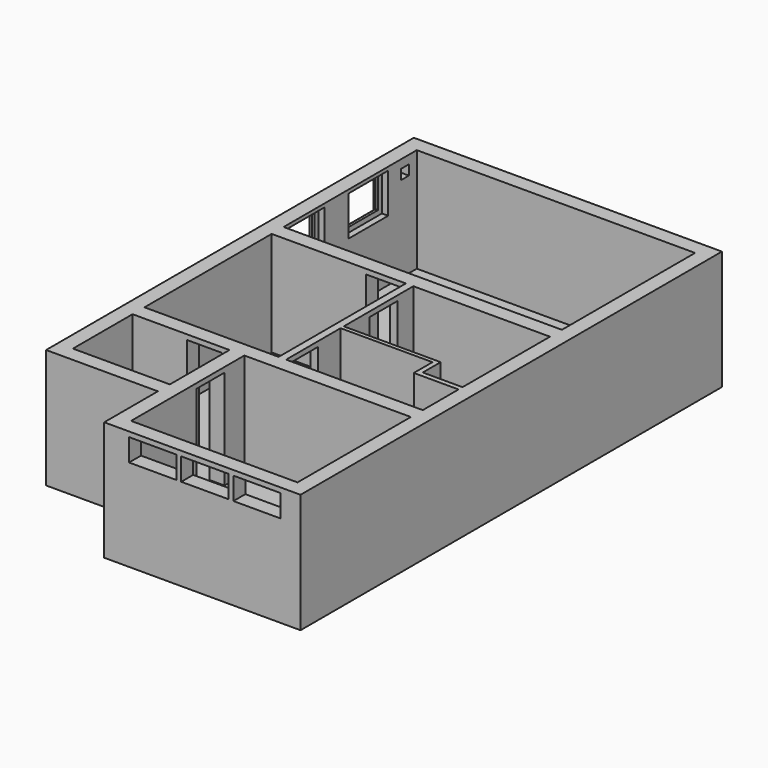
from build123d import *

# Parameters (mm, degrees)
F0_W      = 1950
F0_H      = 1500
F0_W_2    = 2700
F0_H_2    = 3200
F0_W_3    = 5600
F0_H_3    = 3350
F1_DEPTH  = 2100
F3_DEPTH  = 300
F4_W      = 950
F4_H      = 450
F5_DEPTH  = 300
F6_W      = 700
F6_H      = 2000
F7_DEPTH  = 300
F8_W      = 700
F8_H      = 2000
F9_DEPTH  = 300
F10_W     = 800
F10_H     = 2000
F11_DEPTH = 300
F12_W     = 700
F12_H     = 2000
F13_DEPTH = 150
F14_W     = 800
F14_H     = 200
F14_W_2   = 200
F15_DEPTH = 300.001
F16_W     = 800
F16_H     = 600
F16_W_2   = 200
F16_H_2   = 200
F17_DEPTH = 300.001
F18_W     = 1000
F18_H     = 800
F19_DEPTH = 125
F20_W     = 1000
F20_H     = 800
F21_DEPTH = 125
F22_W     = 1450
F22_H     = 200
F23_DEPTH = 1100
F25_DEPTH = 5


with BuildPart() as f1:
    # F0 (on Top) → F1 (new body)
    with BuildSketch(Plane.XY):
        Polygon((5900, -10300), (5900, 300), (-300, 300), (-300, -8950), (1950, -8950), (1950, -10300), align=None)
        with Locations((975, -7900)):
            Rectangle(F0_W, F0_H, mode=Mode.SUBTRACT)
        with Locations((1350, -5250)):
            Rectangle(F0_W_2, F0_H_2, mode=Mode.SUBTRACT)
        Polygon((5600, -7150), (5600, -8650), (5600, -10000), (2250, -10000), (2250, -8650), (2250, -7150), align=None, mode=Mode.SUBTRACT)
        Polygon((5600, -6850), (2850, -6850), (2850, -5480), (4700, -5480), (4700, -5950), (5600, -5950), align=None, mode=Mode.SUBTRACT)
        Polygon((2850, -5400), (2850, -3650), (5600, -3650), (5600, -5850), (4800, -5850), (4800, -5400), align=None, mode=Mode.SUBTRACT)
        with Locations((2800, -1675)):
            Rectangle(F0_W_3, F0_H_3, mode=Mode.SUBTRACT)
    extrude(amount=F1_DEPTH)

    # F2 (on face) → F3 (join)
    with BuildSketch(Plane.XY):
        Polygon((-300, 300), (-300, -8950), (1950, -8950), (1950, -10300), (5900, -10300), (5900, 300), align=None)
    extrude(amount=-F3_DEPTH)

    # F4 (on face) → F5 (cut, through all)
    with BuildSketch(Plane(origin=(0, -10000, 0), x_dir=(-1, 0, 0), z_dir=(0, 1, 0))):
        with Locations((-5025, 1775)):
            Rectangle(F4_W, F4_H)
        with Locations((-3975, 1775)):
            Rectangle(F4_W, F4_H)
        with Locations((-2925, 1775)):
            Rectangle(F4_W, F4_H)
    extrude(amount=-F5_DEPTH, mode=Mode.SUBTRACT)

    # F6 (on face) → F7 (cut, through all)
    with BuildSketch(Plane.XZ.offset(7150)):
        with Locations((1450, 1000)):
            Rectangle(F6_W, F6_H)
    extrude(amount=-F7_DEPTH, mode=Mode.SUBTRACT)

    # F8 (on face) → F9 (cut, through all)
    with BuildSketch(Plane(origin=(1950, 0, 0), x_dir=(0, -1, 0), z_dir=(-1, 0, 0))):
        with Locations((8000, 1000)):
            Rectangle(F8_W, F8_H)
    extrude(amount=-F9_DEPTH, mode=Mode.SUBTRACT)

    # F10 (on face) → F11 (cut, through all)
    with BuildSketch(Plane.XZ.offset(3650)):
        with Locations((2300, 1000)):
            Rectangle(F10_W, F10_H)
    extrude(amount=-F11_DEPTH, mode=Mode.SUBTRACT)

    # F12 (on face) → F13 (cut, through all)
    with BuildSketch(Plane(origin=(2700, 0, 0), x_dir=(0, -1, 0), z_dir=(-1, 0, 0))):
        with Locations((6400, 1000)):
            Rectangle(F12_W, F12_H)
        with Locations((4400, 1000)):
            Rectangle(F12_W, F12_H)
    extrude(amount=-F13_DEPTH, mode=Mode.SUBTRACT)

    # F14 (on face) → F15 (cut, through all)
    with BuildSketch(Plane.YZ):
        with Locations((-2820, 1830)):
            Rectangle(F14_W, F14_H)
        with Locations((-300, 1830)):
            Rectangle(F14_W_2, F14_H)
    extrude(amount=-F15_DEPTH, mode=Mode.SUBTRACT)

    # F16 (on face) → F17 (cut, through all)
    with BuildSketch(Plane.YZ):
        with Locations((-2820, 1630)):
            Rectangle(F16_W, F16_H)
        with Locations((-1220, 1630)):
            Rectangle(F16_W, F16_H)
        with Locations((-300, 1830)):
            Rectangle(F16_W_2, F16_H_2)
    extrude(amount=-F17_DEPTH, mode=Mode.SUBTRACT)

    # F18 (on face) → F19 (cut)
    with BuildSketch(Plane.YZ):
        with Locations((-2820, 1630)):
            Rectangle(F18_W, F18_H)
        with Locations((-1220, 1630)):
            Rectangle(F18_W, F18_H)
    extrude(amount=-F19_DEPTH, mode=Mode.SUBTRACT)

    # F20 (on face) → F21 (cut)
    with BuildSketch(Plane(origin=(-300, 0, 0), x_dir=(0, -1, 0), z_dir=(-1, 0, 0))):
        with Locations((2820, 1630)):
            Rectangle(F20_W, F20_H)
        with Locations((1220, 1630)):
            Rectangle(F20_W, F20_H)
    extrude(amount=-F21_DEPTH, mode=Mode.SUBTRACT)

    # F22 (on face) → F23 (join)
    with BuildSketch(Plane.XY):
        with Locations((3975, -5580)):
            Rectangle(F22_W, F22_H)
    extrude(amount=F23_DEPTH)

    # F24 (on face) → F25 (cut)
    with BuildSketch(Plane.XY):
        with BuildLine():
            ThreePointArc((4700, -6150), (4432.121597, -6203.284327), (4205.025253, -6355.025253))
            Line((4205.025253, -6355.025253), (4208.560787, -6358.560787))
            ThreePointArc((4208.560787, -6358.560787), (4434.035015, -6207.903725), (4700, -6155))
            Line((4700, -6155), (4700, -6150))
        make_face()
    extrude(amount=-F25_DEPTH, mode=Mode.SUBTRACT)


solid = f1.part
